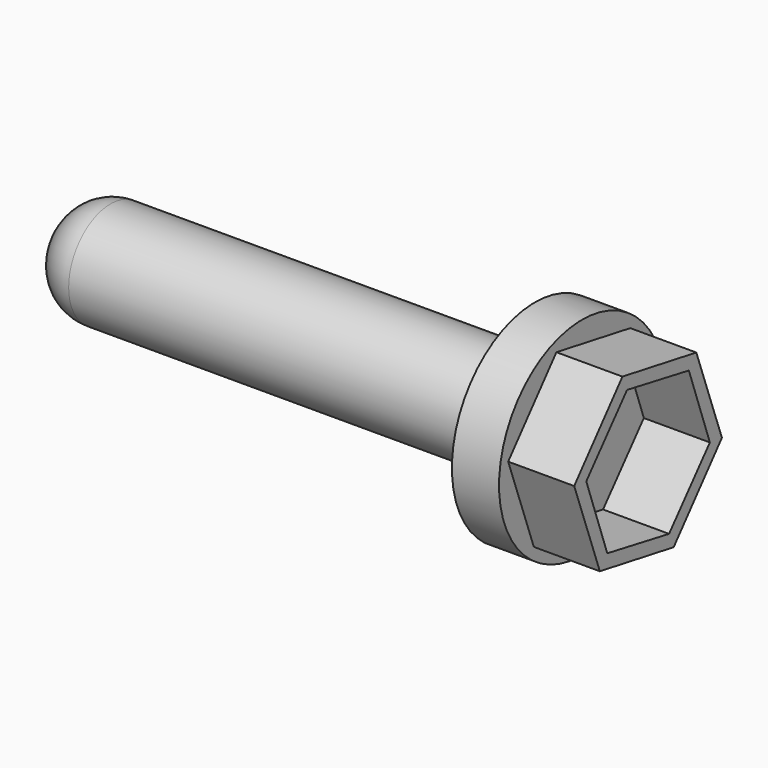
from build123d import *

# Parameters (mm, degrees)
F0_R     = 2.794
F1_DEPTH = 1.27
F3_DEPTH = 1.778
F4_R     = 1.4097
F5_DEPTH = 12.7
F6_R     = 1.27


with BuildPart() as f1:
    # F0 (on Right) → F1 (new body)
    with BuildSketch(Plane.YZ):
        Circle(F0_R)
    extrude(amount=F1_DEPTH)

    # F2 (on face) → F3 (join)
    with BuildSketch(Plane.YZ.offset(1.27)):
        Polygon((-1.623683, -1.933988), (0.863042, -2.373145), (2.486725, -0.439157), (1.623683, 1.933988), (-0.863042, 2.373145), (-2.486725, 0.439157), align=None)
        Polygon((2.080505, -0.384262), (0.707472, -1.993901), (-1.373033, -1.609639), (-2.080505, 0.384262), (-0.707472, 1.993901), (1.373033, 1.609639), align=None, mode=Mode.SUBTRACT)
    extrude(amount=F3_DEPTH)

    # F4 (on face) → F5 (join)
    with BuildSketch(Plane(origin=(0, 0, 0), x_dir=(0, -1, 0), z_dir=(-1, 0, 0))):
        Circle(F4_R)
    extrude(amount=F5_DEPTH)

    # F6
    f6_edges = [f1.edges().sort_by_distance(p)[0] for p in [
        (-12.7, 1.4097, 0),
    ]]
    fillet(f6_edges, radius=F6_R)


solid = f1.part
